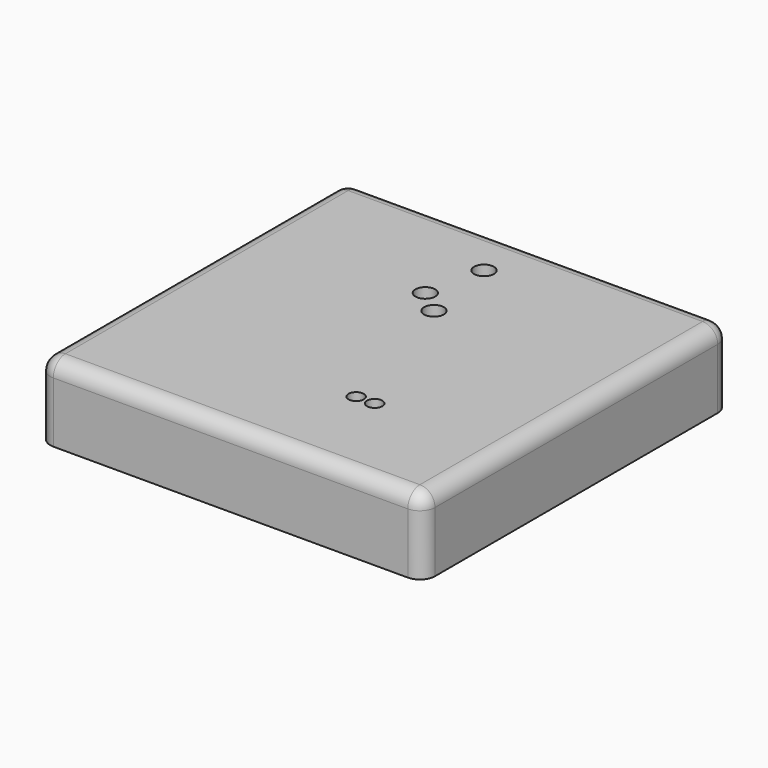
from build123d import *

# Parameters (mm, degrees)
F0_W     = 25.434012
F0_H     = 25.360106
F0_R     = 0.502726
F0_R_2   = 0.505177
F0_R_3   = 0.651682
F0_R_4   = 0.654036
F0_R_5   = 0.653901
F1_DEPTH = 5
F2_R     = 1
F3_R     = 1
F4_R     = 1
F5_R     = 1


with BuildPart() as f1:
    # F0 (on Top) → F1 (new body)
    with BuildSketch(Plane.XY):
        with Locations((-13.553905, -12.680053)):
            Rectangle(F0_W, F0_H)
        with Locations((-10.558297, -18.72582)):
            Circle(F0_R, mode=Mode.SUBTRACT)
        with Locations((-9.337448, -18.723993)):
            Circle(F0_R_2, mode=Mode.SUBTRACT)
        with Locations((-15.011093, -7.446084)):
            Circle(F0_R_3, mode=Mode.SUBTRACT)
        with Locations((-14.220849, -3.582401)):
            Circle(F0_R_4, mode=Mode.SUBTRACT)
        with Locations((-13.412111, -8.726368)):
            Circle(F0_R_5, mode=Mode.SUBTRACT)
    extrude(amount=F1_DEPTH)

    # F2
    f2_edges = [f1.edges().sort_by_distance(p)[0] for p in [
        (-13.553905, 0, 5),
    ]]
    fillet(f2_edges, radius=F2_R)

    # F3
    f3_edges = [f1.edges().sort_by_distance(p)[0] for p in [
        (-26.270911, -13.180053, 5),
    ]]
    fillet(f3_edges, radius=F3_R)

    # F4
    f4_edges = [f1.edges().sort_by_distance(p)[0] for p in [
        (-13.053905, -25.360106, 5),
    ]]
    fillet(f4_edges, radius=F4_R)

    # F5
    f5_edges = [f1.edges().sort_by_distance(p)[0] for p in [
        (-0.836899, -12.680053, 5),
    ]]
    fillet(f5_edges, radius=F5_R)


solid = f1.part
